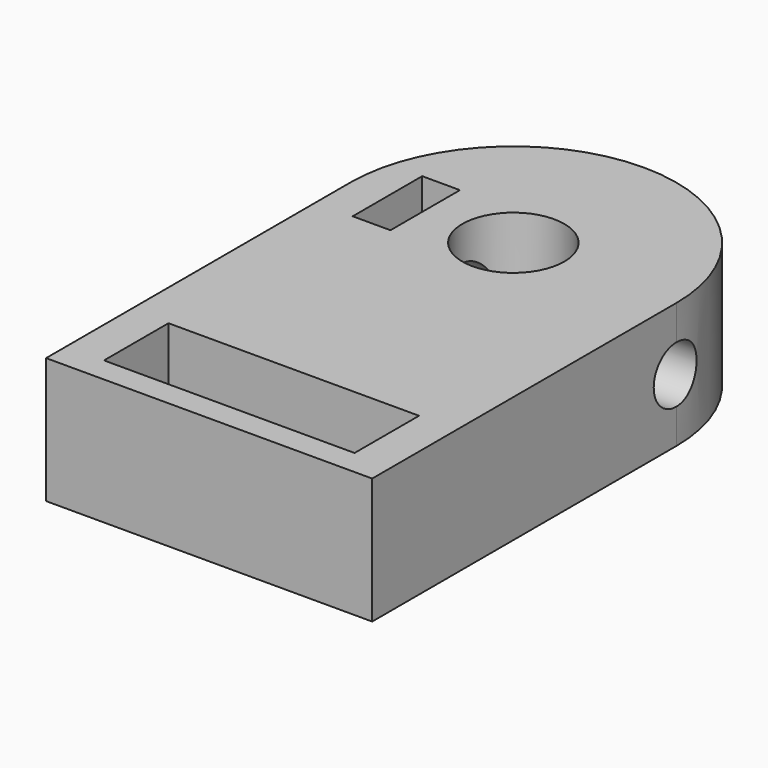
from build123d import *

# Parameters (mm, degrees)
SKETCH_R        = 4.05
SKETCH_W        = 19.9
SKETCH_H        = 6.4
PAD_DEPTH       = 10
SKETCH002_W     = 3
SKETCH002_H     = 6.9
POCKET001_DEPTH = 12
SKETCH003_R     = 2.25
POCKET_DEPTH    = 6
SKETCH004_R     = 2.25
POCKET002_DEPTH = 25.901


with BuildPart() as part:
    # Sketch → Pad (new body)
    with BuildSketch(Plane.XY):
        with BuildLine():
            ThreePointArc((12.95, 0), (0, 12.95), (-12.95, 0))
            Line((-12.95, 0), (-12.95, -30.2))
            Line((-12.95, -30.2), (12.95, -30.2))
            Line((12.95, -30.2), (12.95, 0))
        make_face()
        Circle(SKETCH_R, mode=Mode.SUBTRACT)
        with Locations((0, -25)):
            Rectangle(SKETCH_W, SKETCH_H, mode=Mode.SUBTRACT)
    extrude(amount=PAD_DEPTH)

    # Sketch002 → Pocket001 (cut)
    with BuildSketch(Plane.XY.offset(10)):
        with Locations((-8.5, 0)):
            Rectangle(SKETCH002_W, SKETCH002_H)
    extrude(amount=-POCKET001_DEPTH, mode=Mode.SUBTRACT)

    # Sketch003 → Pocket (cut, symmetric)
    with BuildSketch(Plane.YZ.offset(-9.95)):
        with Locations((0, 5)):
            Circle(SKETCH003_R)
    extrude(amount=POCKET_DEPTH, both=True, mode=Mode.SUBTRACT)

    # Sketch004 → Pocket002 (cut, through all)
    with BuildSketch(Plane.YZ.offset(12.95)):
        with Locations((0, 5)):
            Circle(SKETCH004_R)
    extrude(amount=-POCKET002_DEPTH, mode=Mode.SUBTRACT)


solid = part.part
